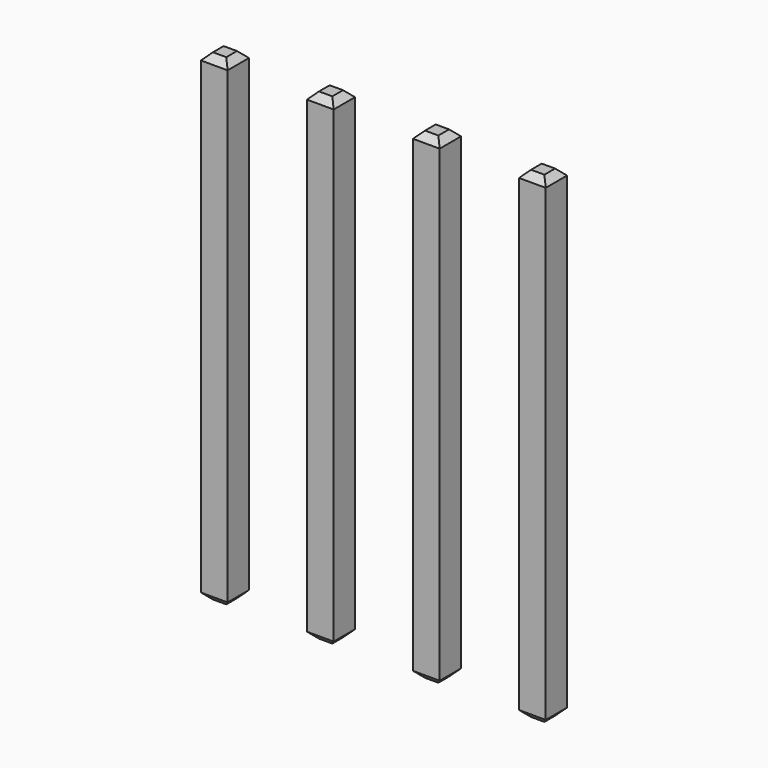
from build123d import *

# Parameters (mm, degrees)
SKETCH221_W       = 0.64
SKETCH221_H       = 11.54
PAD076_DEPTH      = 0.32
PAD076_DEPTH_BACK = 0.32
CHAMFER037_SIZE   = 0.16
ARRAY014_X_COUNT  = 4
ARRAY014_X_PITCH  = 2.54


with BuildPart() as part:
    # Sketch221 → Pad076 (new body, two sides)
    with BuildSketch(Plane.XZ) as pad076_sk:
        with Locations((0, 2.77)):
            Rectangle(SKETCH221_W, SKETCH221_H)
    extrude(amount=PAD076_DEPTH)
    extrude(pad076_sk.sketch, amount=-PAD076_DEPTH_BACK)

    # Chamfer037
    chamfer037_edges = [part.edges().sort_by_distance(p)[0] for p in [
        (0.32, 0, 8.54),
        (-0.32, 0, 8.54),
        (0, 0.32, 8.54),
        (0, -0.32, 8.54),
        (-0.32, 0, -3),
        (0.32, 0, -3),
        (0, 0.32, -3),
        (0, -0.32, -3),
    ]]
    chamfer(chamfer037_edges, length=CHAMFER037_SIZE)

    # Array014 X: part ×4


with BuildPart() as part_1:
    add(part.part)
    with Locations(*[(i * ARRAY014_X_PITCH, 0, 0) for i in range(1, ARRAY014_X_COUNT)]):
        add(part.part)


solid = part_1.part
